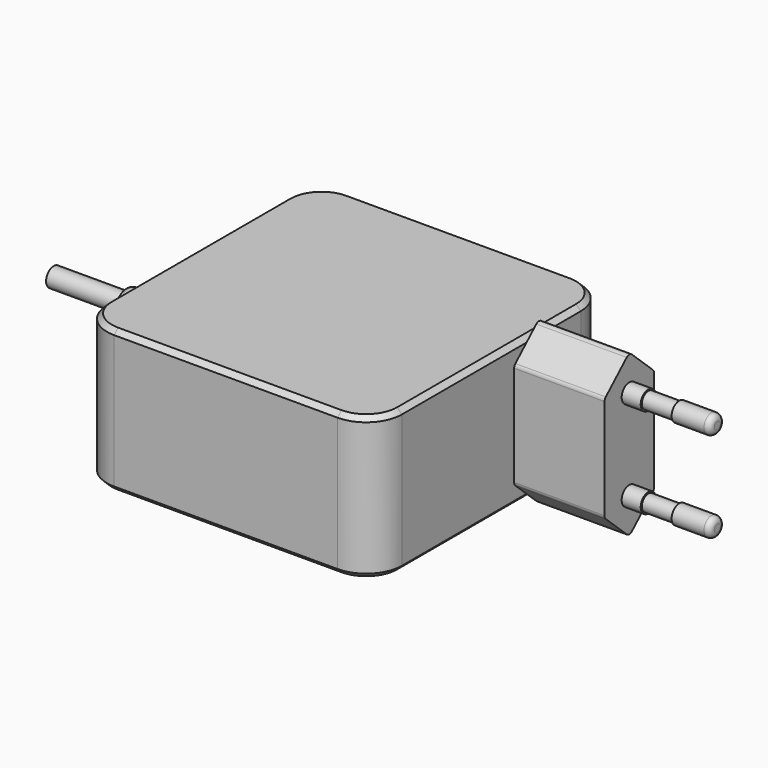
from build123d import *

# Parameters (mm, degrees)
SKETCH_W     = 62
SKETCH_H     = 62
PAD_DEPTH    = 15
FILLET_R     = 7.5
CHAMFER_SIZE = 1
PAD001_DEPTH = 19
FILLET001_R  = 1
SKETCH002_R  = 2
PAD002_DEPTH = 4
SKETCH003_R  = 1.7
PAD003_DEPTH = 6.5
SKETCH004_R  = 2
PAD004_DEPTH = 8
FILLET002_R  = 1.2
FILLET003_R  = 1.2
FILLET004_R  = 1
SKETCH005_R  = 2
PAD005_DEPTH = 15


with BuildPart() as part:
    # Sketch → Pad (new body, symmetric)
    with BuildSketch(Plane.XY):
        Rectangle(SKETCH_W, SKETCH_H)
    extrude(amount=PAD_DEPTH, both=True)

    # Fillet
    fillet_edges = [part.edges().sort_by_distance(p)[0] for p in [
        (31, -31, 0),
        (-31, -31, 0),
        (31, 31, 0),
        (-31, 31, 0),
    ]]
    fillet(fillet_edges, radius=FILLET_R)

    # Chamfer
    chamfer_edges = [part.edges().sort_by_distance(p)[0] for p in [
        (0, 31, 15),
        (-28.803301, 28.803301, 15),
        (-31, 0, 15),
        (31, 0, 15),
        (28.803301, 28.803301, 15),
        (-28.803301, -28.803301, 15),
        (0, -31, 15),
        (28.803301, -28.803301, 15),
        (28.803301, -28.803301, -15),
        (0, -31, -15),
        (-28.803301, -28.803301, -15),
        (-31, 0, -15),
        (31, 0, -15),
        (28.803301, 28.803301, -15),
        (0, 31, -15),
        (-28.803301, 28.803301, -15),
    ]]
    chamfer(chamfer_edges, length=CHAMFER_SIZE)

    # Sketch001 (on Face13 of Chamfer) → Pad001 (join)
    with BuildSketch(Plane.YZ.offset(31)):
        Polygon((6, 11), (6, -11), (12.5, -17), (19, -11), (19, 11), (12.5, 17), align=None)
    extrude(amount=PAD001_DEPTH)

    # Fillet001
    fillet001_edges = [part.edges().sort_by_distance(p)[0] for p in [
        (40.5, 19, 11),
        (40.5, 6, 11),
        (40.5, 12.5, 17),
        (40.5, 6, -11),
        (40.5, 12.5, -17),
        (40.5, 19, -11),
    ]]
    fillet(fillet001_edges, radius=FILLET001_R)

    # Sketch002 (on Face12 of Fillet001) → Pad002 (join)
    with BuildSketch(Plane.YZ.offset(50)):
        with Locations((12.5, 9.5)):
            Circle(SKETCH002_R)
        with Locations((12.5, -9.5)):
            Circle(SKETCH002_R)
    extrude(amount=PAD002_DEPTH)

    # Sketch003 (on Face43 of Pad002) → Pad003 (join)
    with BuildSketch(Plane.YZ.offset(54)):
        with Locations((12.5, 9.5)):
            Circle(SKETCH003_R)
        with Locations((12.5, -9.5)):
            Circle(SKETCH003_R)
    extrude(amount=PAD003_DEPTH)

    # Sketch004 (on Face50 of Pad003) → Pad004 (join)
    with BuildSketch(Plane.YZ.offset(60.5)):
        with Locations((12.5, 9.5)):
            Circle(SKETCH004_R)
        with Locations((12.5, -9.5)):
            Circle(SKETCH004_R)
    extrude(amount=PAD004_DEPTH)

    # Fillet002
    fillet002_edges = [part.edges().sort_by_distance(p)[0] for p in [
        (68.5, 10.5, 9.5),
    ]]
    fillet(fillet002_edges, radius=FILLET002_R)

    # Fillet003
    fillet003_edges = [part.edges().sort_by_distance(p)[0] for p in [
        (68.5, 10.5, -9.5),
    ]]
    fillet(fillet003_edges, radius=FILLET003_R)

    # Cone → Cone (revolve)
    with BuildSketch(Plane(origin=(-31, 0, 0), x_dir=(0, -1, 0), z_dir=(0, 0, -1))):
        Polygon((0, 0), (4, 0), (3, 15), (0, 15), align=None)
    revolve(axis=Axis((-31, 0, 0), (-1, 0, 0)))

    # Fillet004
    fillet004_edges = [part.edges().sort_by_distance(p)[0] for p in [
        (-46, 3, 0),
    ]]
    fillet(fillet004_edges, radius=FILLET004_R)

    # Sketch005 (on Face4 of Fillet004) → Pad005 (join)
    with BuildSketch(Plane(origin=(-46, 0, 0), x_dir=(0, -1, 0), z_dir=(-1, 0, 0))):
        Circle(SKETCH005_R)
    extrude(amount=PAD005_DEPTH)


solid = part.part
